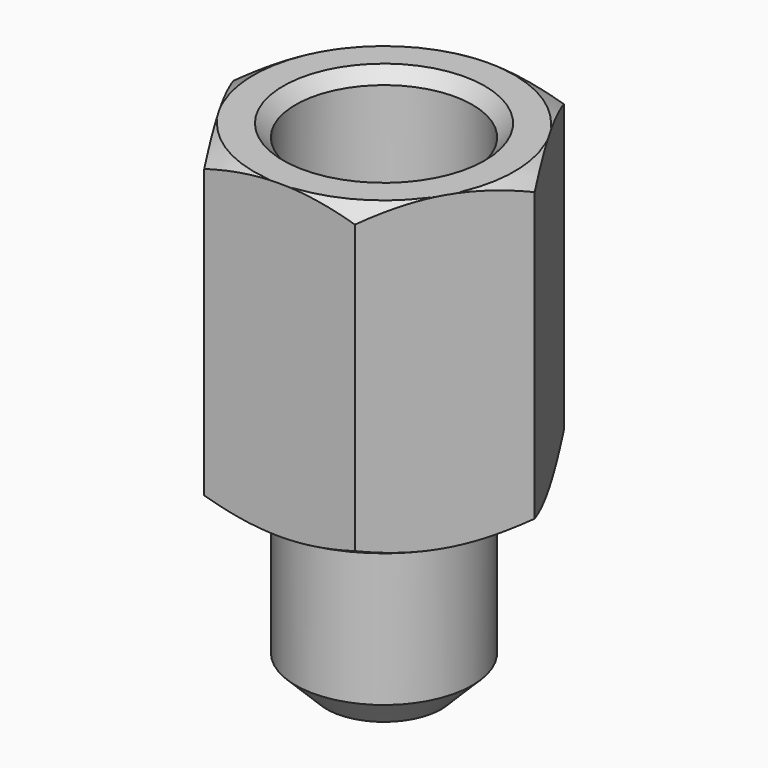
from build123d import *

# Parameters (mm, degrees)
SKETCH013_R     = 3.630449
POCKET007_DEPTH = 8.001
CHAMFER_SIZE    = 0.2


with BuildPart() as part:
    # Sketch012 → Revolution001 (revolve)
    with BuildSketch(Plane.XZ):
        Polygon((1.4224, 5), (1.4224, 1.821223), (0, 1), (0, -3), (0.9224, -3), (1.4224, -2.5), (1.4224, 0), (2.1, 0), (3.1, 0.57735), (3.1, 4.42265), (2.1, 5), align=None)
    revolve(axis=Axis((0, 0, 0), (0, 0, 1)))

    # Sketch013 (on Face10 of Revolution001) → Pocket007 (cut, through all)
    with BuildSketch(Plane(origin=(0, 0, 5), x_dir=(-1, 0, 0), z_dir=(0, 0, 1))):
        Circle(SKETCH013_R)
        Polygon((2.424871, 0), (1.212436, 2.1), (-1.212436, 2.1), (-2.424871, 0), (-1.212436, -2.1), (1.212436, -2.1), align=None, mode=Mode.SUBTRACT)
    extrude(amount=-POCKET007_DEPTH, mode=Mode.SUBTRACT)

    # Chamfer
    chamfer_edges = [part.edges().sort_by_distance(p)[0] for p in [
        (-1.4224, 0, 5),
    ]]
    chamfer(chamfer_edges, length=CHAMFER_SIZE)


with BuildPart() as part_1:
    # Body004 placement: moved
    add(part.part.moved(Location((-31.755, 0, 0.9))))


with BuildPart() as part_2:
    # Clone001 placement: moved
    add(part_1.part.moved(Location((31.755, 0, -0.9))))


with BuildPart() as part_3:
    # Body005 placement: moved
    add(part_2.part.moved(Location((31.755, 0, 0.9))))


solid = part_3.part
